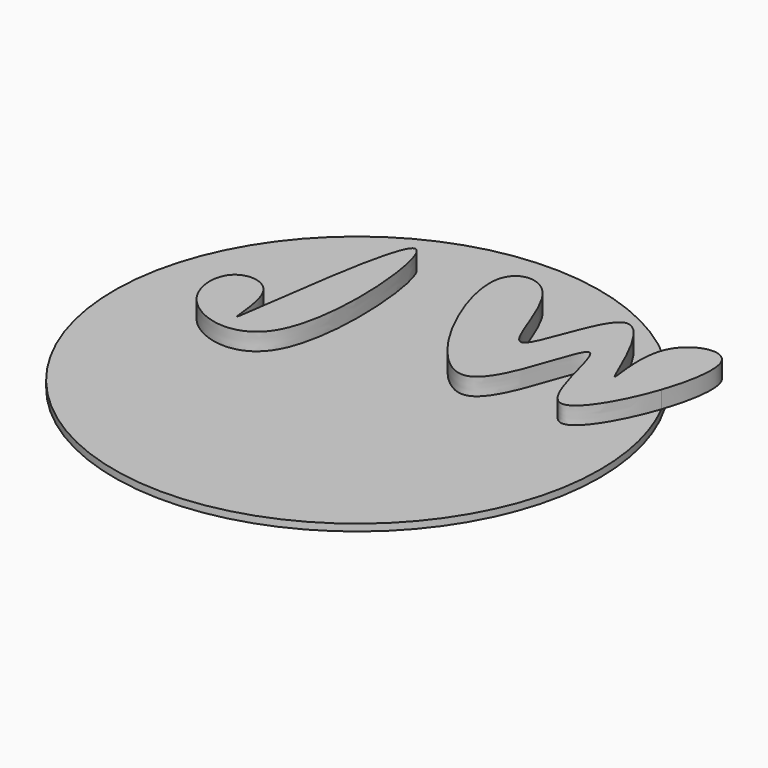
from build123d import *

# Parameters (mm, degrees)
F0_R     = 178.4381633811
F2_DEPTH = 5.08
F1_DEPTH = 12.7
F4_DEPTH = 12.7


with BuildPart() as f2:
    # F0 (on Top) → F2 (new body)
    with BuildSketch(Plane.XY):
        Circle(F0_R)
    extrude(amount=F2_DEPTH)

    # F3 (on face) → F1 (join)
    with BuildSketch(Plane.XY.offset(5.08)):
        with BuildLine():
            ThreePointArc((130.3388113863, 121.8686686447), (146.1500421604, 102.3735479865), (159.0692499201, 80.8526553719))
            add(Edge.make_bspline(
                [(159.0692499201, 80.8526553719), (165.5746768009, 99.9667765009), (173.0169072114, 146.2411015019), (137.7625226326, 137.1632429025), (130.3388113863, 121.8686686447)],
                knots=[0.4201272115, 0.4201272115, 0.4201272115, 0.4201272115, 0.47385484, 0.5471358638, 0.5471358638, 0.5471358638, 0.5471358638], degree=3))
        make_face()
        with BuildLine():
            add(Edge.make_bspline(
                [(130.3388113863, 121.8686686447), (121.8731911136, 104.4275191166), (140.3066169704, 36.9074784571), (88.2208176933, 185.1157214547), (59.1203051323, 28.2622980674), (39.9271784522, 148.098165342), (3.0646405473, 143.6472184977), (0, 129.2118132114)],
                knots=[0.5471358638, 0.5471358638, 0.5471358638, 0.5471358638, 0.6307017919, 0.7320163064, 0.8319203172, 0.9329758973, 1, 1, 1, 1], degree=3))
            add(Edge.make_bspline(
                [(0, 129.2118132114), (-6.2687791079, 99.6839238305), (69.7067358276, -48.1031303778), (98.8950548401, 149.6317428577), (113.9266884068, -5.5328508142), (150.0987134513, 54.4955962891), (159.0692499201, 80.8526553719)],
                knots=[0, 0, 0, 0, 0.1370990457, 0.2455893624, 0.3460405051, 0.4201272115, 0.4201272115, 0.4201272115, 0.4201272115], degree=3))
            ThreePointArc((159.0692499201, 80.8526553719), (146.1500421604, 102.3735479865), (130.3388113863, 121.8686686447))
        make_face()
    extrude(amount=F1_DEPTH)

    # F3 (on face) → F4 (join)
    with BuildSketch(Plane.XY.offset(5.08)):
        with BuildLine():
            add(Edge.make_bspline(
                [(-61.8539750576, 129.0131807327), (-50.3017023051, 135.2063144206), (-30.6178867687, -33.66126833), (-127.9919057815, -9.5032336383), (-131.2315077112, 46.1193293902), (-87.4602629619, 43.1684525624), (-90.7696507216, -52.0699567068), (-73.5197658948, 122.7591903901), (-61.8539750576, 129.0131807327)],
                knots=[0, 0, 0, 0, 0.2380154047, 0.3972631334, 0.5279043801, 0.6369448805, 0.7596457435, 1, 1, 1, 1], degree=3))
        make_face()
    extrude(amount=F4_DEPTH)


solid = f2.part
